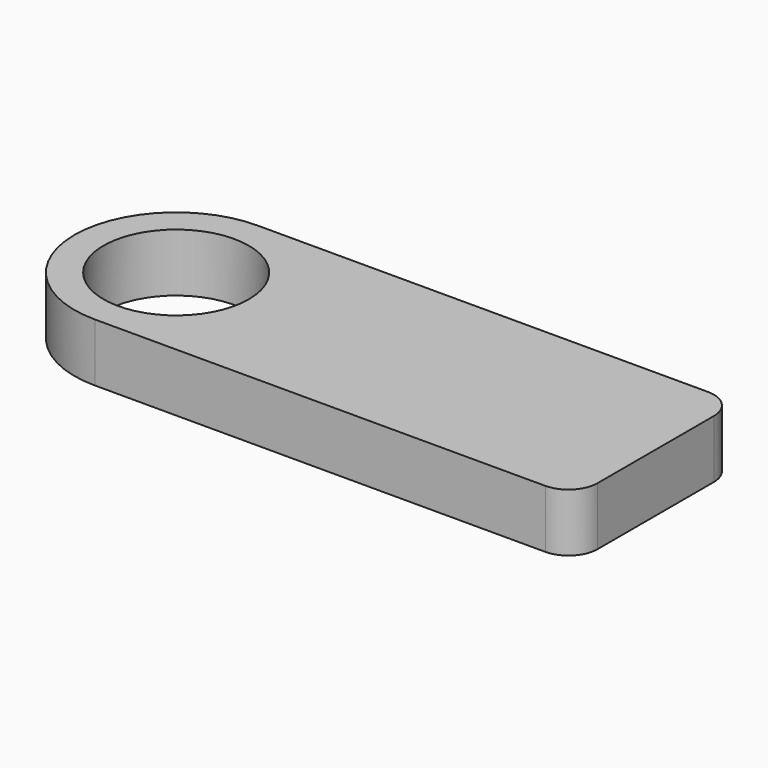
from build123d import *

# Parameters (mm, degrees)
F0_R     = 12.5
F1_DEPTH = 10


with BuildPart() as f1:
    # F0 (on Top) → F1 (new body)
    with BuildSketch(Plane.XY):
        with BuildLine():
            ThreePointArc((0, 17.5), (5.125631, 5.125631), (17.5, 0))
            Line((17.5, 0), (95, 0))
            ThreePointArc((95, 0), (98.535534, 1.464466), (100, 5))
            Line((100, 5), (100, 30))
            ThreePointArc((100, 30), (98.535534, 33.535534), (95, 35))
            Line((95, 35), (17.5, 35))
            ThreePointArc((17.5, 35), (5.125631, 29.874369), (0, 17.5))
        make_face()
        with Locations((17.5, 17.5)):
            Circle(F0_R, mode=Mode.SUBTRACT)
    extrude(amount=F1_DEPTH)


solid = f1.part
